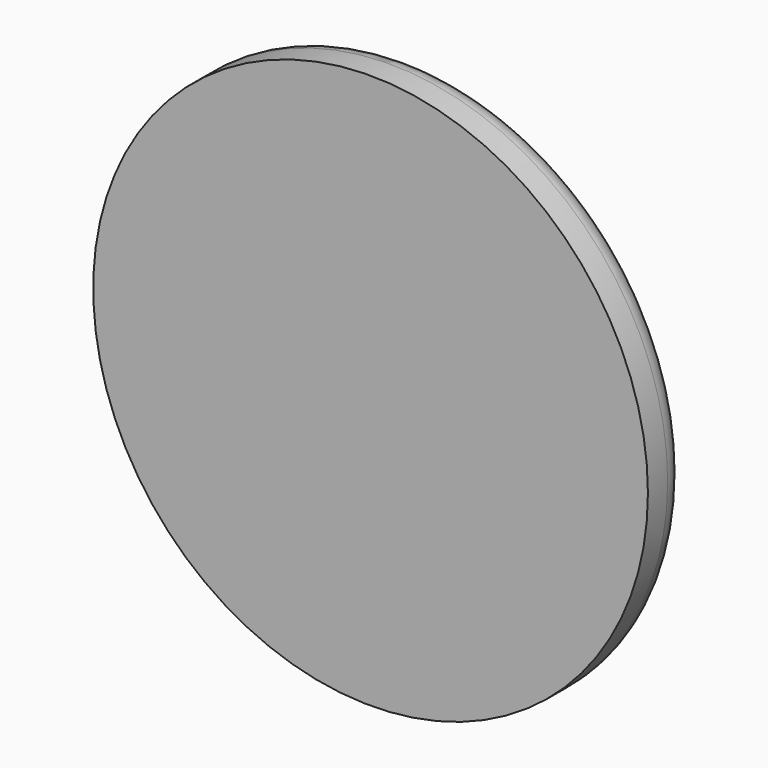
from build123d import *

# Parameters (mm, degrees)
F2_R = 2


with BuildPart() as f1:
    # F0 (on Top) → F1 (revolve)
    with BuildSketch(Plane.XY):
        Polygon((17, 1.6), (0, 1.6), (0, 0), (22.5, 0), (22.5, 4), (17, 4), align=None)
    revolve(axis=Axis((0, 0.076191, 0), (0, -1, 0)))

    # F2
    f2_edges = [f1.edges().sort_by_distance(p)[0] for p in [
        (-22.5, 4, 0),
    ]]
    fillet(f2_edges, radius=F2_R)


solid = f1.part
